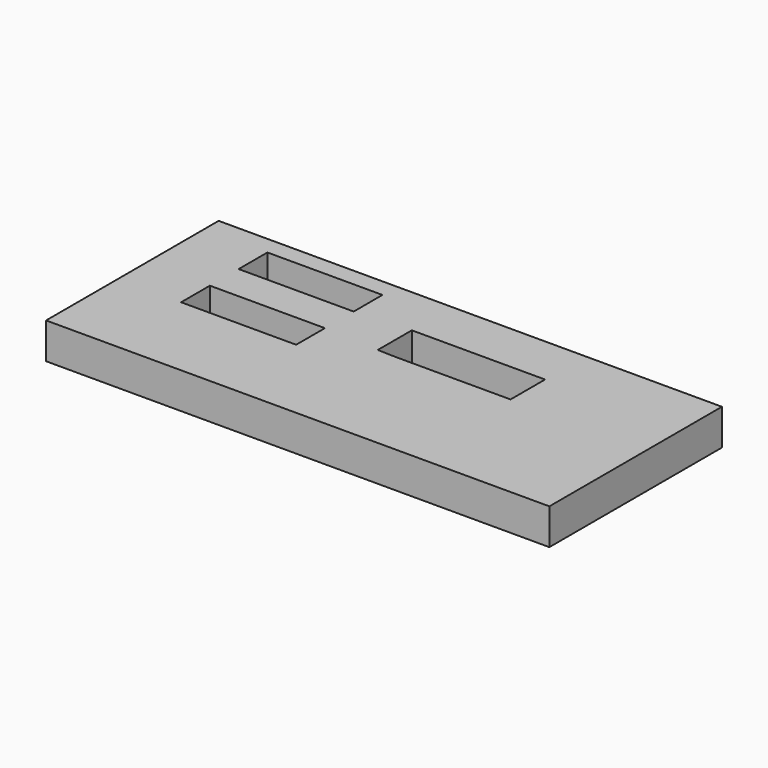
from build123d import *

# Parameters (mm, degrees)
F0_W     = 80
F0_H     = 25
F1_DEPTH = 12.5


with BuildPart() as f1:
    # F0 (on Top) → F1 (new body, symmetric)
    with BuildSketch(Plane.XY):
        Polygon((0, 75), (-175, 75), (-175, -75), (0, -75), (80, -75), (175, -75), (175, 75), (80, 75), align=None)
        with Locations((-91.08772, 0)):
            Rectangle(F0_W, F0_H, mode=Mode.SUBTRACT)
        with Locations((-91.08772, 50)):
            Rectangle(F0_W, F0_H, mode=Mode.SUBTRACT)
        Polygon((-12.64242, 40), (0, 40), (80, 40), (80, 10), (0, 10), (-12.64242, 10.43639), align=None, mode=Mode.SUBTRACT)
    extrude(amount=F1_DEPTH, both=True)


solid = f1.part
